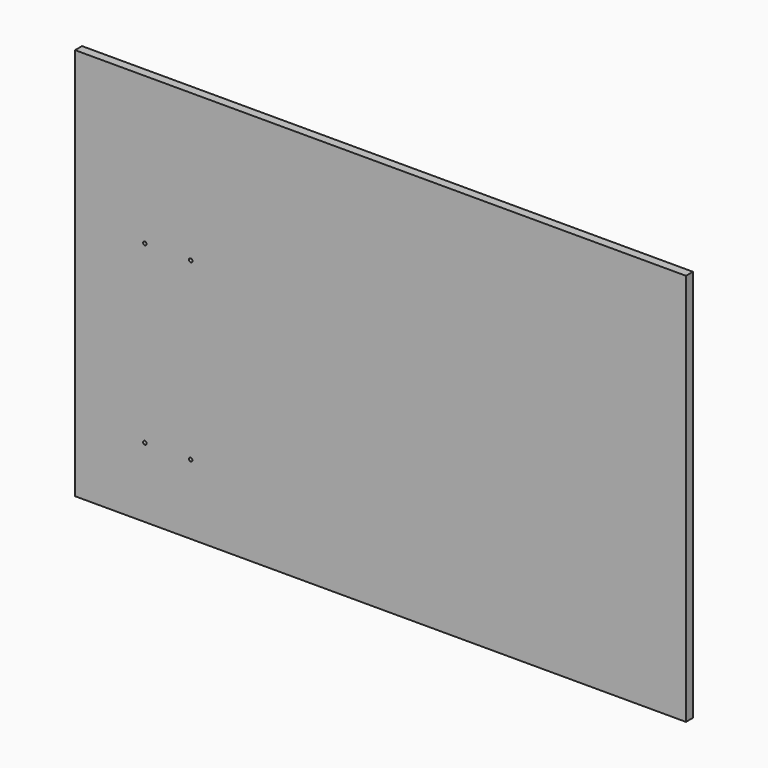
from build123d import *

# Parameters (mm, degrees)
F0_W     = 889
F0_H     = 571.5
F1_DEPTH = 12.7
F3_D     = 5.08
F3_DEPTH = 8.89
F3_TIP   = 1.5261859723
F5_D     = 5.08
F5_DEPTH = 8.89
F5_TIP   = 1.5261859723


with BuildPart() as f1:
    # F0 (on Front) → F1 (new body)
    with BuildSketch(Plane.XZ):
        with Locations((444.5, 285.75)):
            Rectangle(F0_W, F0_H)
    extrude(amount=F1_DEPTH)

    # F3
    with Locations(Plane(origin=(0, 0, 0), x_dir=(-1, 0, 0), z_dir=(0, 1, 0))):
        with Locations((-635.9295617819, 470.4925119877), (-635.9295617819, 101.6127), (-204.1295617819, 101.6127), (-204.1295617819, 470.4925119877)):
            Hole(F3_D / 2, depth=F3_DEPTH)
            with Locations((0, 0, -(F3_DEPTH + F3_TIP / 2))):  # 118° drill point
                Cone(0, F3_D / 2, F3_TIP, mode=Mode.SUBTRACT)

    # F5
    with Locations(Plane.XZ.offset(12.7)):
        with Locations((101.6, 101.6), (168.275, 101.6), (101.6, 356.8431784153), (168.275, 356.8431784153)):
            Hole(F5_D / 2, depth=F5_DEPTH)
            with Locations((0, 0, -(F5_DEPTH + F5_TIP / 2))):  # 118° drill point
                Cone(0, F5_D / 2, F5_TIP, mode=Mode.SUBTRACT)


solid = f1.part
